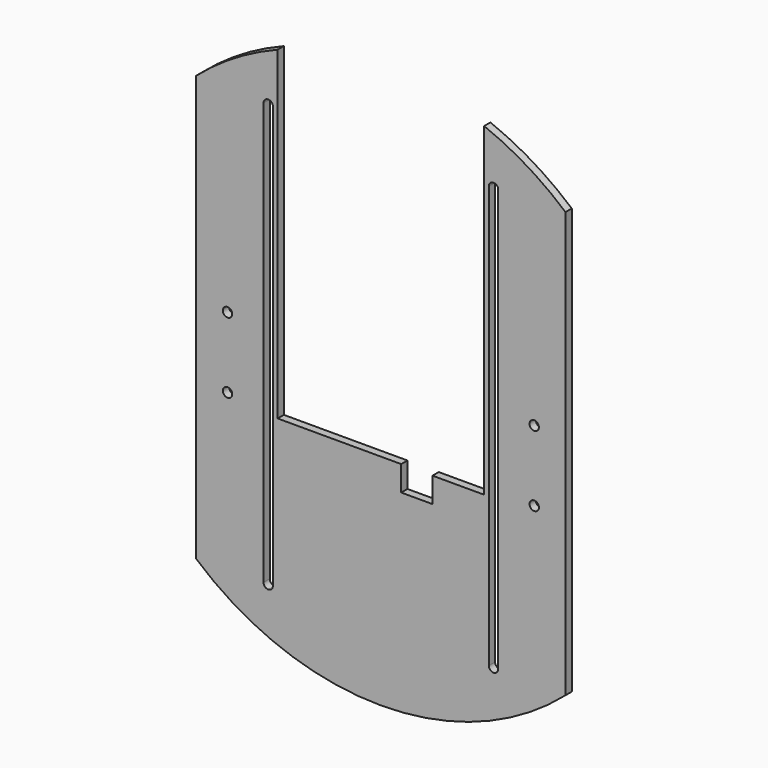
from build123d import *

# Parameters (mm, degrees)
F0_R     = 1.905
F1_DEPTH = 3.175


with BuildPart() as f1:
    # F0 (on Front) → F1 (new body)
    with BuildSketch(Plane.XZ):
        with BuildLine():
            Line((-41.91, -25.4), (-41.91, 106.339277))
            ThreePointArc((-41.91, 106.339277), (-59.271885, 97.730925), (-74.93, 86.313296))
            Line((-74.93, 86.313296), (-74.93, -86.313296))
            ThreePointArc((-74.93, -86.313296), (-39.993001, -107.074973), (0, -114.3))
            ThreePointArc((0, -114.3), (39.993001, -107.074973), (74.93, -86.313296))
            Line((74.93, -86.313296), (74.93, 86.313296))
            ThreePointArc((74.93, 86.313296), (59.271885, 97.730925), (41.91, 106.339277))
            Line((41.91, 106.339277), (41.91, -25.4))
            Line((41.91, -25.4), (20.955, -25.4))
            Line((20.955, -25.4), (20.955, -35.56))
            Line((20.955, -35.56), (8.255, -35.56))
            Line((8.255, -35.56), (8.255, -25.4))
            Line((8.255, -25.4), (0, -25.4))
            Line((0, -25.4), (-41.91, -25.4))
        make_face()
        with Locations((-62.23, -22.72586)):
            Circle(F0_R, mode=Mode.SUBTRACT)
        with Locations((62.23, -22.72586)):
            Circle(F0_R, mode=Mode.SUBTRACT)
        with Locations((-62.23, 5.92534)):
            Circle(F0_R, mode=Mode.SUBTRACT)
        with BuildLine():
            Line((-47.625, -85.833408), (-47.625, 85.429423))
            ThreePointArc((-47.625, 85.429423), (-45.72, 87.334423), (-43.815, 85.429423))
            Line((-43.815, 85.429423), (-43.815, -85.833408))
            ThreePointArc((-43.815, -85.833408), (-45.72, -87.738408), (-47.625, -85.833408))
        make_face(mode=Mode.SUBTRACT)
        with BuildLine():
            ThreePointArc((43.815, 85.429423), (45.72, 87.334423), (47.625, 85.429423))
            Line((47.625, 85.429423), (47.625, -85.833408))
            ThreePointArc((47.625, -85.833408), (45.72, -87.738408), (43.815, -85.833408))
            Line((43.815, -85.833408), (43.815, 85.429423))
        make_face(mode=Mode.SUBTRACT)
        with Locations((62.23, 5.92534)):
            Circle(F0_R, mode=Mode.SUBTRACT)
    extrude(amount=F1_DEPTH)


solid = f1.part
